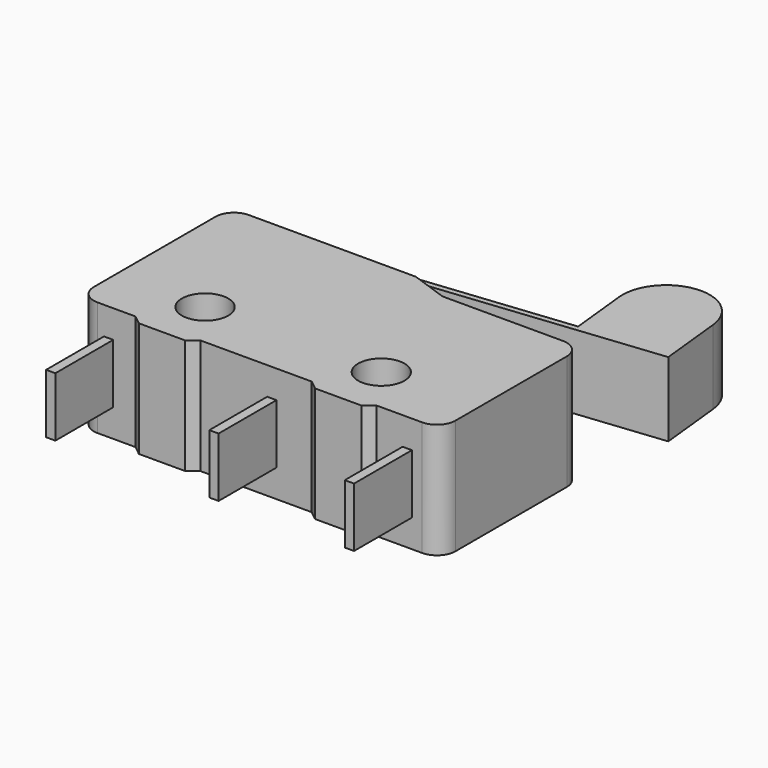
from build123d import *

# Parameters (mm, degrees)
PAD002_DEPTH = 2
SKETCH001_W  = 0.5
SKETCH001_H  = 3.9
PAD001_DEPTH = 1.6
SKETCH_R     = 1.25
PAD_DEPTH    = 3.1
FILLET_R     = 1


with BuildPart() as pad002:
    # Sketch002 → Pad002 (new body, symmetric)
    with BuildSketch(Plane.XY):
        with BuildLine():
            Line((4.768567, 11.298349), (16.85169, 12.571388))
            Line((16.85169, 12.571388), (16.516404, 15.753774))
            ThreePointArc((21.190534, 16.246226), (18.607244, 18.337065), (16.516404, 15.753774))
            Line((21.190534, 16.246226), (21.557253, 12.765491))
            Line((21.557253, 12.765491), (4.8, 11))
            Line((4.8, 11), (4.768567, 11.298349))
        make_face()
    extrude(amount=PAD002_DEPTH, both=True)


with BuildPart() as pad_contacts:
    # Sketch001 → Pad001 (new body, symmetric)
    with BuildSketch(Plane.XY):
        with Locations((17.7, -1.95)):
            Rectangle(SKETCH001_W, SKETCH001_H)
        with Locations((10.4, -1.95)):
            Rectangle(SKETCH001_W, SKETCH001_H)
        with Locations((1.6, -1.95)):
            Rectangle(SKETCH001_W, SKETCH001_H)
    extrude(amount=PAD001_DEPTH, both=True)


with BuildPart() as fusion:
    # Sketch → Pad (new body, symmetric)
    with BuildSketch(Plane.XY):
        Polygon((0, 0), (3.05, 0), (3.55, -0.4), (6.05, -0.4), (6.55, 0), (12.55, 0), (13.05, -0.4), (15.55, -0.4), (16.05, 0), (19.5, 0), (19.5, 9.5), (12, 9.5), (10, 10.2), (0, 10.2), align=None)
        with Locations((14.3, 2.5)):
            Circle(SKETCH_R, mode=Mode.SUBTRACT)
        with Locations((4.8, 2.5)):
            Circle(SKETCH_R, mode=Mode.SUBTRACT)
    extrude(amount=PAD_DEPTH, both=True)

    # Fillet
    fillet_edges = [fusion.edges().sort_by_distance(p)[0] for p in [
        (19.5, 9.5, 0),
        (0, 10.2, 0),
        (0, 0, 0),
        (19.5, 0, 0),
    ]]
    fillet(fillet_edges, radius=FILLET_R)

    # Fusion: union Pad002, Pad-contacts
    add(pad002.part)
    add(pad_contacts.part)


solid = fusion.part
